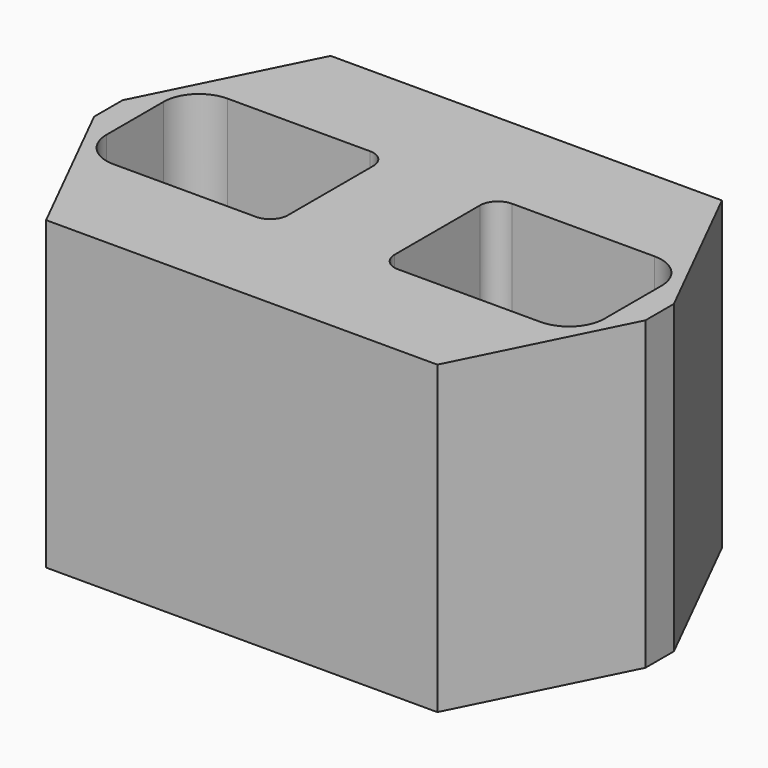
from build123d import *

# Parameters (mm, degrees)
F1_DEPTH = 17.2


with BuildPart() as f1:
    # F0 (on Top) → F1 (new body)
    with BuildSketch(Plane.XY):
        Polygon((-63.067667, 11.326656), (-63.067667, 9.326656), (-58.567667, 0.326656), (-36.567667, 0.326656), (-32.067667, 9.326656), (-32.067667, 11.326656), (-36.567667, 20.326656), (-58.567667, 20.326656), align=None)
        with BuildLine():
            Line((-59.567667, 14.326656), (-51.567667, 14.326656))
            ThreePointArc((-51.567667, 14.326656), (-50.86056, 14.033762), (-50.567667, 13.326656))
            Line((-50.567667, 13.326656), (-50.567667, 7.326656))
            ThreePointArc((-50.567667, 7.326656), (-50.86056, 6.619549), (-51.567667, 6.326656))
            Line((-51.567667, 6.326656), (-59.567667, 6.326656))
            ThreePointArc((-59.567667, 6.326656), (-60.981881, 6.912442), (-61.567667, 8.326656))
            Line((-61.567667, 8.326656), (-61.567667, 12.326656))
            ThreePointArc((-61.567667, 12.326656), (-60.981881, 13.740869), (-59.567667, 14.326656))
        make_face(mode=Mode.SUBTRACT)
        with BuildLine():
            ThreePointArc((-35.567667, 14.326656), (-34.153454, 13.740869), (-33.567667, 12.326656))
            Line((-33.567667, 12.326656), (-33.567667, 8.326656))
            ThreePointArc((-33.567667, 8.326656), (-34.153454, 6.912442), (-35.567667, 6.326656))
            Line((-35.567667, 6.326656), (-43.567667, 6.326656))
            ThreePointArc((-43.567667, 6.326656), (-44.274774, 6.619549), (-44.567667, 7.326656))
            Line((-44.567667, 7.326656), (-44.567667, 13.326656))
            ThreePointArc((-44.567667, 13.326656), (-44.274774, 14.033762), (-43.567667, 14.326656))
            Line((-43.567667, 14.326656), (-35.567667, 14.326656))
        make_face(mode=Mode.SUBTRACT)
    extrude(amount=F1_DEPTH)


solid = f1.part
